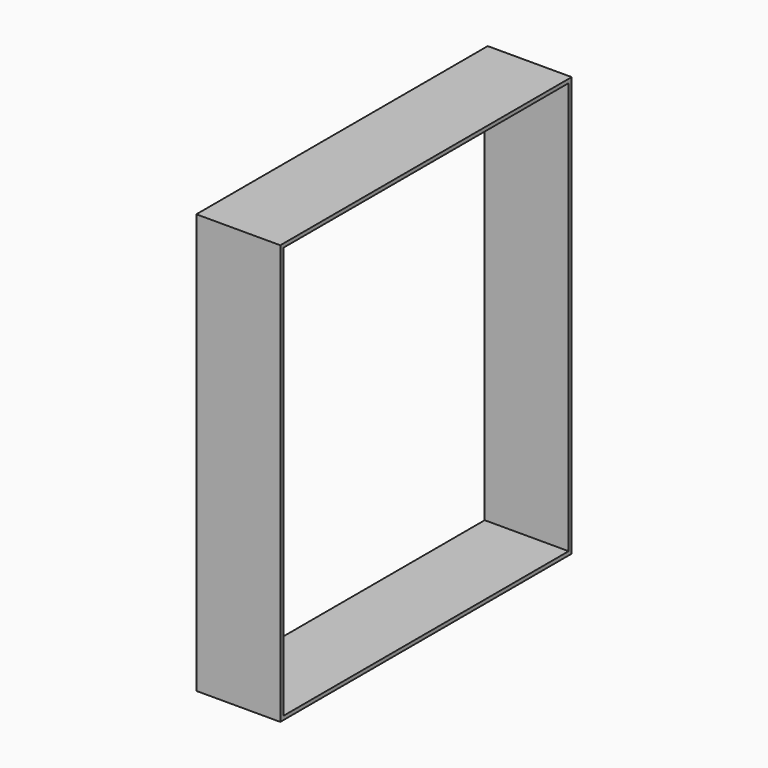
from build123d import *

# Parameters (mm, degrees)
F0_W     = 1700
F0_H     = 18
F1_DEPTH = 400
F2_W     = 18
F2_H     = 2000
F3_DEPTH = 400


with BuildPart() as f1:
    # F0 (on Right) → F1 (new body)
    with BuildSketch(Plane.YZ):
        with Locations((1750, 129)):
            Rectangle(F0_W, F0_H)
        with Locations((1750, 2111)):
            Rectangle(F0_W, F0_H)
    extrude(amount=F1_DEPTH)

    # F2 (on face) → F3 (join)
    with BuildSketch(Plane.YZ.offset(400)):
        with Locations((891, 1120)):
            Rectangle(F2_W, F2_H)
        with Locations((2609, 1120)):
            Rectangle(F2_W, F2_H)
    extrude(amount=-F3_DEPTH)


solid = f1.part
